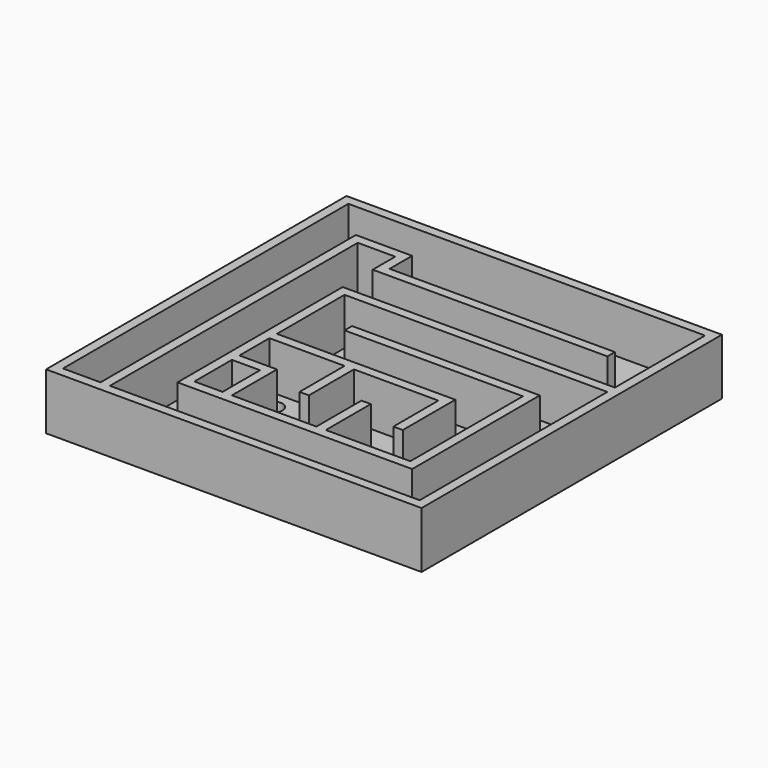
from build123d import *

# Parameters (mm, degrees)
F0_W      = 50.8
F0_H      = 50.8
F1_DEPTH  = 7.62
F2_T      = -1.27
F3_W      = 1.27
F3_H      = 43.18
F4_DEPTH  = 6.35
F5_R      = 1.27
F6_DEPTH  = 25.4
F8_DEPTH  = 6.35
F9_W      = 36.83
F9_H      = 1.27
F10_DEPTH = 6.35
F11_W     = 1.27
F11_H     = 26.6634474313
F12_DEPTH = 6.35
F13_W     = 30.48
F13_H     = 1.27
F14_DEPTH = 6.35
F15_W     = 1.27
F15_H     = 20.3134474313
F16_DEPTH = 6.35
F17_W     = 24.13
F17_H     = 1.27
F18_DEPTH = 6.35
F19_W     = 24.13
F19_H     = 1.27
F20_DEPTH = 6.35
F21_W     = 1.27
F21_H     = 7.6134474313
F22_DEPTH = 6.35
F23_W     = 1.27
F23_H     = 7.6134474313
F24_DEPTH = 6.35
F25_W     = 1.27
F25_H     = 7.6134474313
F26_DEPTH = 6.35
F27_W     = 3.81
F27_H     = 1.27
F28_DEPTH = 6.35
F29_R     = 1.27
F30_DEPTH = 25.4
F31_R     = 1.27
F32_DEPTH = 25.4
F33_R     = 1.27
F34_DEPTH = 25.4


with BuildPart() as f1:
    # F0 (on Top) → F1 (new body)
    with BuildSketch(Plane.XY):
        with Locations((25.4, 25.4)):
            Rectangle(F0_W, F0_H)
    extrude(amount=F1_DEPTH)

    # F2
    f2_openings = [f1.faces().sort_by_distance(p)[0] for p in [
        (25.4, 25.4, 7.62),
    ]]
    offset(amount=F2_T, openings=f2_openings)

    # F3 (on face) → F4 (join)
    with BuildSketch(Plane.XY.offset(1.27)):
        with Locations((6.985, 22.86)):
            Rectangle(F3_W, F3_H)
    extrude(amount=F4_DEPTH)

    # F5 (on face) → F6 (cut)
    with BuildSketch(Plane.XY.offset(1.27)):
        with Locations((3.81, 3.81)):
            Circle(F5_R)
    extrude(amount=-F6_DEPTH, mode=Mode.SUBTRACT)

    # F7 (on face) → F8 (join)
    with BuildSketch(Plane.XY.offset(1.27)):
        Polygon((13.97, 44.45), (7.62, 44.45), (7.62, 43.18), (12.7, 43.18), (12.7, 39.3634474313), (44.45, 39.3634474313), (44.45, 40.6334474313), (13.97, 40.6334474313), align=None)
    extrude(amount=F8_DEPTH)

    # F9 (on face) → F10 (join)
    with BuildSketch(Plane.XY.offset(1.27)):
        with Locations((31.115, 33.6484474313)):
            Rectangle(F9_W, F9_H)
    extrude(amount=F10_DEPTH)

    # F11 (on face) → F12 (join)
    with BuildSketch(Plane.XY.offset(1.27)):
        with Locations((13.335, 19.6817237157)):
            Rectangle(F11_W, F11_H)
    extrude(amount=F12_DEPTH)

    # F13 (on face) → F14 (join)
    with BuildSketch(Plane.XY.offset(1.27)):
        with Locations((29.21, 6.985)):
            Rectangle(F13_W, F13_H)
    extrude(amount=F14_DEPTH)

    # F15 (on face) → F16 (join)
    with BuildSketch(Plane.XY.offset(1.27)):
        with Locations((43.815, 17.7767237157)):
            Rectangle(F15_W, F15_H)
    extrude(amount=F16_DEPTH)

    # F17 (on face) → F18 (join)
    with BuildSketch(Plane.XY.offset(1.27)):
        with Locations((31.115, 27.2984474313)):
            Rectangle(F17_W, F17_H)
    extrude(amount=F18_DEPTH)

    # F19 (on face) → F20 (join)
    with BuildSketch(Plane.XY.offset(1.27)):
        with Locations((26.035, 20.9484474313)):
            Rectangle(F19_W, F19_H)
    extrude(amount=F20_DEPTH)

    # F21 (on face) → F22 (join)
    with BuildSketch(Plane.XY.offset(1.27)):
        with Locations((37.465, 16.5067237157)):
            Rectangle(F21_W, F21_H)
    extrude(amount=F22_DEPTH)

    # F23 (on face) → F24 (join)
    with BuildSketch(Plane.XY.offset(1.27)):
        with Locations((31.115, 11.4267237157)):
            Rectangle(F23_W, F23_H)
    extrude(amount=F24_DEPTH)

    # F25 (on face) → F26 (join)
    with BuildSketch(Plane.XY.offset(1.27)):
        with Locations((24.765, 16.5067237157)):
            Rectangle(F25_W, F25_H)
    extrude(amount=F26_DEPTH)

    # F27 (on face) → F28 (join)
    with BuildSketch(Plane.XY.offset(1.27)):
        Polygon((17.78, 7.62), (19.05, 7.62), (19.05, 15.2334474313), (17.78, 15.2334474313), (17.78, 13.9634474313), align=None)
        with Locations((15.875, 14.5984474313)):
            Rectangle(F27_W, F27_H)
    extrude(amount=F28_DEPTH)

    # F29 (on face) → F30 (cut)
    with BuildSketch(Plane.XY.offset(1.27)):
        with Locations((16.51, 17.7734474313)):
            Circle(F29_R)
    extrude(amount=-F30_DEPTH, mode=Mode.SUBTRACT)

    # F31 (on face) → F32 (cut)
    with BuildSketch(Plane.XY.offset(1.27)):
        with Locations((3.81, 12.7)):
            Circle(F31_R)
    extrude(amount=-F32_DEPTH, mode=Mode.SUBTRACT)

    # F33 (on face) → F34 (cut)
    with BuildSketch(Plane.XY.offset(1.27)):
        with Locations((16.7510975152, 43.2170815766)):
            Circle(F33_R)
    extrude(amount=-F34_DEPTH, mode=Mode.SUBTRACT)


solid = f1.part
